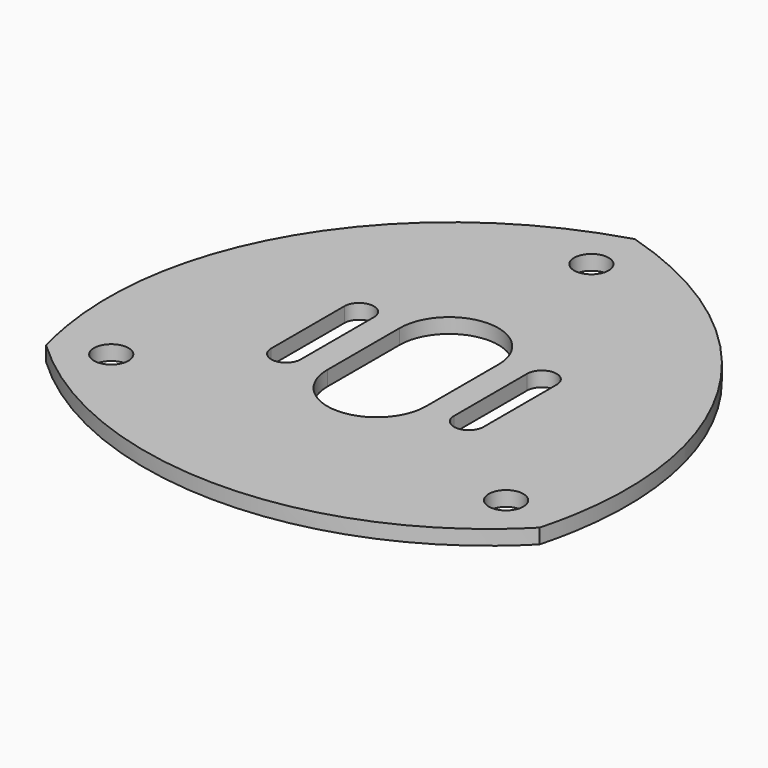
from build123d import *

# Parameters (mm, degrees)
F0_R     = 4.445
F1_DEPTH = 3.81


with BuildPart() as f1:
    # F0 (on Top) → F1 (new body)
    with BuildSketch(Plane.XY):
        with BuildLine():
            Line((63.5, -69.652364), (-63.5, -69.652364))
            add(Edge.make_bspline(
                [(-63.5, -69.652364), (-27.377963, -103.611864), (29.017352, -104.595505), (63.5, -69.652364)],
                knots=[0, 0, 0, 0, 127, 127, 127, 127], degree=3))
        make_face()
        with BuildLine():
            add(Edge.make_bspline(
                [(0, 40.332863), (49.345907, 25.572751), (76.559924, -21.641931), (63.5, -69.652364)],
                knots=[0, 0, 0, 0, 127, 127, 127, 127], degree=3))
            Line((0, 40.332863), (63.5, -69.652364))
        make_face()
        Polygon((63.5, -69.652364), (0, 40.332863), (-63.5, -69.652364), align=None)
        with Locations((-50.8, -64.572364)):
            Circle(F0_R, mode=Mode.SUBTRACT)
        with Locations((50.8, -64.572364)):
            Circle(F0_R, mode=Mode.SUBTRACT)
        with BuildLine():
            Line((-19.703986, -18.950023), (-19.703986, -42.462528))
            ThreePointArc((-19.703986, -42.462528), (-23.513986, -46.272528), (-27.323986, -42.462528))
            Line((-27.323986, -42.462528), (-27.323986, -18.950023))
            ThreePointArc((-27.323986, -18.950023), (-23.513986, -15.140023), (-19.703986, -18.950023))
        make_face(mode=Mode.SUBTRACT)
        with BuildLine():
            ThreePointArc((-12.7, -19.413278), (0, -6.713278), (12.7, -19.413278))
            Line((12.7, -19.413278), (12.7, -42.692736))
            ThreePointArc((12.7, -42.692736), (0, -55.392736), (-12.7, -42.692736))
            Line((-12.7, -42.692736), (-12.7, -19.413278))
        make_face(mode=Mode.SUBTRACT)
        with BuildLine():
            Line((19.703986, -42.462528), (19.703986, -18.950023))
            ThreePointArc((19.703986, -18.950023), (23.513986, -15.140023), (27.323986, -18.950023))
            Line((27.323986, -18.950023), (27.323986, -42.462528))
            ThreePointArc((27.323986, -42.462528), (23.513986, -46.272528), (19.703986, -42.462528))
        make_face(mode=Mode.SUBTRACT)
        with Locations((0, 26.362863)):
            Circle(F0_R, mode=Mode.SUBTRACT)
        with BuildLine():
            Line((-63.5, -69.652364), (0, 40.332863))
            add(Edge.make_bspline(
                [(0, 40.332863), (-49.345907, 25.572751), (-76.559924, -21.641931), (-63.5, -69.652364)],
                knots=[0, 0, 0, 0, 127, 127, 127, 127], degree=3))
        make_face()
    extrude(amount=F1_DEPTH)


solid = f1.part
